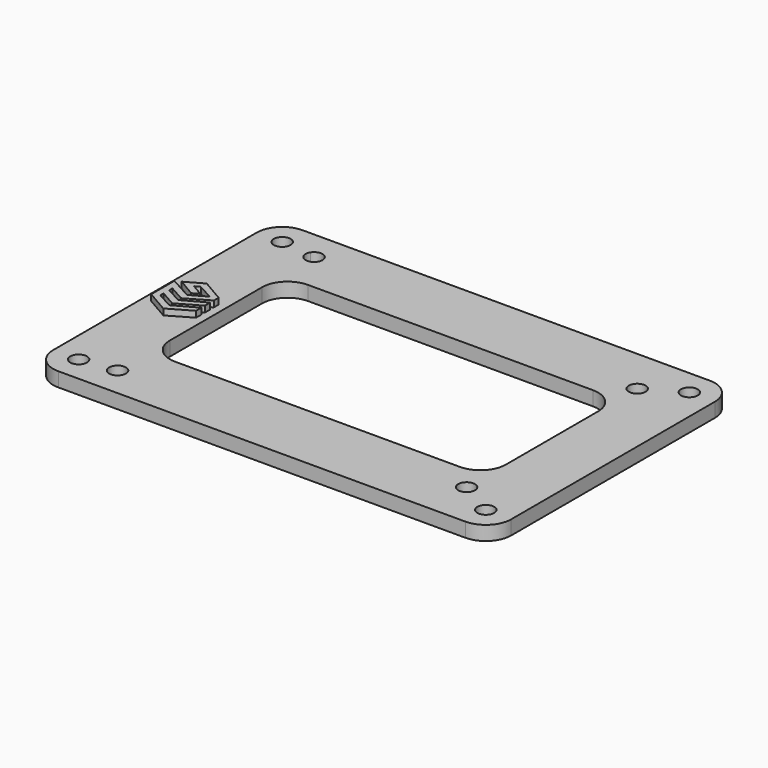
from build123d import *

# Parameters (mm, degrees)
F0_R     = 1.65
F1_DEPTH = 2.8
F2_DEPTH = 4


with BuildPart() as f1:
    # F0 (on Top) → F1 (new body)
    with BuildSketch(Plane.XY):
        with Locations((7.655694, 52.305)):
            Circle(F0_R)
        with BuildLine():
            ThreePointArc((89.305694, 52.305), (87.655694, 53.955), (86.005694, 52.305))
            ThreePointArc((86.005694, 52.305), (87.655694, 50.655), (89.305694, 52.305))
        make_face()
        with BuildLine():
            ThreePointArc((92.655694, 52.305), (91.191228, 55.840534), (87.655694, 57.305))
            Line((87.655694, 57.305), (7.655694, 57.305))
            ThreePointArc((7.655694, 57.305), (4.12016, 55.840534), (2.655694, 52.305))
            Line((2.655694, 52.305), (2.655694, 2.305))
            ThreePointArc((2.655694, 2.305), (4.12016, -1.230534), (7.655694, -2.695))
            Line((7.655694, -2.695), (87.655694, -2.695))
            ThreePointArc((87.655694, -2.695), (91.191228, -1.230534), (92.655694, 2.305))
            Line((92.655694, 2.305), (92.655694, 52.305))
        make_face()
        with Locations((7.655694, 2.305)):
            Circle(F0_R, mode=Mode.SUBTRACT)
        with Locations((14.605, 3.175)):
            Circle(F0_R, mode=Mode.SUBTRACT)
        Polygon((8.679579, 23.260895), (13.055694, 25.697895), (13.055694, 24.38768), (8.653374, 21.845862), (4.251055, 24.38768), (4.251055, 30.07397), (8.679579, 27.636997), (11.745485, 29.36645), (8.653374, 31.069739), (7.710021, 30.571854), (10.068401, 29.183032), (8.810601, 28.50173), (5.299226, 30.571854), (8.679579, 32.484765), (13.055694, 29.942947), (13.055694, 28.763775), (8.653374, 26.221977), (5.56127, 27.95145), (5.56127, 27.165331), (8.679579, 25.462055), (13.055694, 27.872837), (13.055694, 26.562635), (8.653374, 24.047022), (5.56127, 25.802713), (5.56127, 24.990375), align=None, mode=Mode.SUBTRACT)
        with Locations((87.655694, 2.305)):
            Circle(F0_R, mode=Mode.SUBTRACT)
        with Locations((80.645, 6.35)):
            Circle(F0_R, mode=Mode.SUBTRACT)
        with BuildLine():
            Line((19.646068, 43.635763), (75.66532, 43.635763))
            ThreePointArc((75.66532, 43.635763), (79.200854, 42.171297), (80.66532, 38.635763))
            Line((80.66532, 38.635763), (80.66532, 15.974237))
            ThreePointArc((80.66532, 15.974237), (79.200854, 12.438703), (75.66532, 10.974237))
            Line((75.66532, 10.974237), (19.646068, 10.974237))
            ThreePointArc((19.646068, 10.974237), (16.110534, 12.438703), (14.646068, 15.974237))
            Line((14.646068, 15.974237), (14.646068, 38.635763))
            ThreePointArc((14.646068, 38.635763), (16.110534, 42.171297), (19.646068, 43.635763))
        make_face(mode=Mode.SUBTRACT)
        with Locations((7.655694, 52.305)):
            Circle(F0_R, mode=Mode.SUBTRACT)
        with BuildLine():
            ThreePointArc((16.006999, 52.305), (16.191789, 51.887329), (16.255, 51.435))
            ThreePointArc((16.255, 51.435), (14.152671, 49.848211), (13.203001, 52.305))
            ThreePointArc((13.203001, 52.305), (14.605, 53.085), (16.006999, 52.305))
        make_face(mode=Mode.SUBTRACT)
        with Locations((80.645, 48.26)):
            Circle(F0_R, mode=Mode.SUBTRACT)
        with BuildLine():
            ThreePointArc((89.305694, 52.305), (87.655694, 50.655), (86.005694, 52.305))
            ThreePointArc((86.005694, 52.305), (87.655694, 53.955), (89.305694, 52.305))
        make_face(mode=Mode.SUBTRACT)
        Polygon((13.055694, 24.38768), (13.055694, 25.697895), (8.679579, 23.260895), (5.56127, 24.990375), (5.56127, 25.802713), (8.653374, 24.047022), (13.055694, 26.562635), (13.055694, 27.872837), (8.679579, 25.462055), (5.56127, 27.165331), (5.56127, 27.95145), (8.653374, 26.221977), (13.055694, 28.763775), (13.055694, 29.942947), (8.679579, 32.484765), (5.299226, 30.571854), (8.810601, 28.50173), (10.068401, 29.183032), (7.710021, 30.571854), (8.653374, 31.069739), (11.745485, 29.36645), (8.679579, 27.636997), (4.251055, 30.07397), (4.251055, 24.38768), (8.653374, 21.845862), align=None)
    extrude(amount=F1_DEPTH)

    # F0 (on Top) → F2 (join)
    with BuildSketch(Plane.XY):
        Polygon((13.055694, 24.38768), (13.055694, 25.697895), (8.679579, 23.260895), (5.56127, 24.990375), (5.56127, 25.802713), (8.653374, 24.047022), (13.055694, 26.562635), (13.055694, 27.872837), (8.679579, 25.462055), (5.56127, 27.165331), (5.56127, 27.95145), (8.653374, 26.221977), (13.055694, 28.763775), (13.055694, 29.942947), (8.679579, 32.484765), (5.299226, 30.571854), (8.810601, 28.50173), (10.068401, 29.183032), (7.710021, 30.571854), (8.653374, 31.069739), (11.745485, 29.36645), (8.679579, 27.636997), (4.251055, 30.07397), (4.251055, 24.38768), (8.653374, 21.845862), align=None)
    extrude(amount=F2_DEPTH)


solid = f1.part
